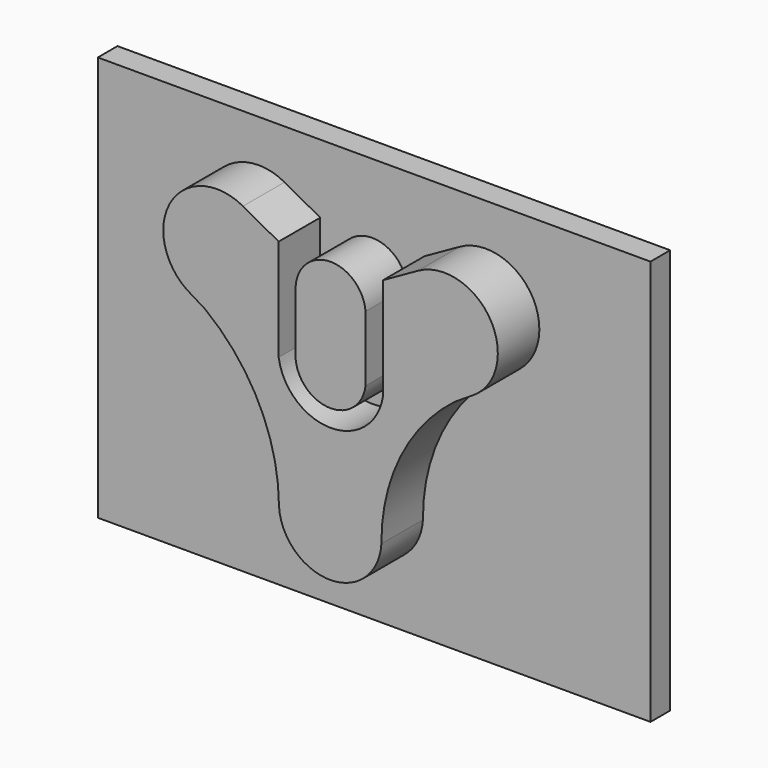
from build123d import *

# Parameters (mm, degrees)
F1_DEPTH = 15.39817
F0_W     = 163.886652
F0_H     = 120.163716
F2_DEPTH = 7.30042


with BuildPart() as f1:
    # F0 (on Front) → F1 (new body)
    with BuildSketch(Plane.XZ):
        with BuildLine():
            Line((25.286822, 45.518864), (14.956244, 39.715052))
            Line((14.956244, 39.715052), (14.956244, 9.503581))
            ThreePointArc((14.956244, 9.503581), (-0.519844, -3.904692), (-15.995933, 9.503581))
            Line((-15.995933, 9.503581), (-15.995933, 39.715052))
            Line((-15.995933, 39.715052), (-26.583172, 45.518864))
            ThreePointArc((-26.583172, 45.518864), (-47.856053, 39.872726), (-43.2592, 18.348711))
            Line((-43.2592, 18.348711), (-37.707034, 14.925296))
            ThreePointArc((-37.707034, 14.925296), (-21.698899, -4.649679), (-15.899867, -29.262913))
            ThreePointArc((-15.899867, -29.262913), (-0.718564, -43.639058), (14.462739, -29.262913))
            ThreePointArc((14.462739, -29.262913), (20.148592, -4.595063), (36.266513, 14.925296))
            Line((36.266513, 14.925296), (41.64549, 18.348711))
            ThreePointArc((41.64549, 18.348711), (46.717944, 39.912454), (25.286822, 45.518864))
        make_face()
        with BuildLine():
            ThreePointArc((9.759975, 29.860687), (-0.589103, 39.464068), (-10.938182, 29.860687))
            Line((-10.938182, 29.860687), (-10.938182, 10.450379))
            ThreePointArc((-10.938182, 10.450379), (-0.589103, 1.218506), (9.759975, 10.450379))
            Line((9.759975, 10.450379), (9.759975, 29.860687))
        make_face()
    extrude(amount=F1_DEPTH)


with BuildPart() as f2:
    # F0 (on Front) → F2 (new body)
    with BuildSketch(Plane.XZ):
        Rectangle(F0_W, F0_H)
        with BuildLine():
            Line((14.956244, 9.503581), (14.956244, 39.715052))
            Line((14.956244, 39.715052), (25.286822, 45.518864))
            ThreePointArc((25.286822, 45.518864), (46.717944, 39.912454), (41.64549, 18.348711))
            Line((41.64549, 18.348711), (36.266513, 14.925296))
            ThreePointArc((36.266513, 14.925296), (20.148592, -4.595063), (14.462739, -29.262913))
            ThreePointArc((14.462739, -29.262913), (-0.718564, -43.639058), (-15.899867, -29.262913))
            ThreePointArc((-15.899867, -29.262913), (-21.698899, -4.649679), (-37.707034, 14.925296))
            Line((-37.707034, 14.925296), (-43.2592, 18.348711))
            ThreePointArc((-43.2592, 18.348711), (-47.856053, 39.872726), (-26.583172, 45.518864))
            Line((-26.583172, 45.518864), (-15.995933, 39.715052))
            Line((-15.995933, 39.715052), (-15.995933, 9.503581))
            ThreePointArc((-15.995933, 9.503581), (-0.519844, -3.904692), (14.956244, 9.503581))
        make_face(mode=Mode.SUBTRACT)
        with BuildLine():
            Line((-10.938182, 10.450379), (-10.938182, 29.860687))
            ThreePointArc((-10.938182, 29.860687), (-0.589103, 39.464068), (9.759975, 29.860687))
            Line((9.759975, 29.860687), (9.759975, 10.450379))
            ThreePointArc((9.759975, 10.450379), (-0.589103, 1.218506), (-10.938182, 10.450379))
        make_face(mode=Mode.SUBTRACT)
    extrude(amount=-F2_DEPTH)


solid = Compound([f1.part, f2.part])
